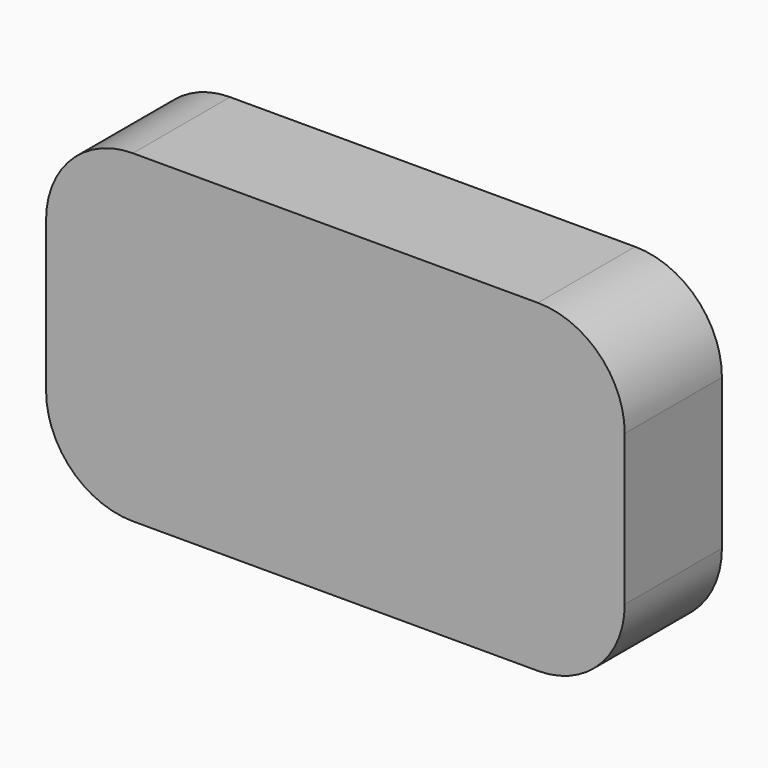
from build123d import *

# Parameters (mm, degrees)
F0_W     = 45
F0_H     = 23
F1_DEPTH = 8
F2_R     = 5
F3_T     = 2.5


with BuildPart() as f1:
    # F0 (on Front) → F1 (new body)
    with BuildSketch(Plane.XZ):
        Rectangle(F0_W, F0_H)
    extrude(amount=F1_DEPTH)

    # F2
    f2_edges = [f1.edges().sort_by_distance(p)[0] for p in [
        (22.5, -4, 11.5),
        (-22.5, -4, 11.5),
        (22.5, -4, -11.5),
        (-22.5, -4, -11.5),
    ]]
    fillet(f2_edges, radius=F2_R)

    # F3
    f3_openings = [f1.faces().sort_by_distance(p)[0] for p in [
        (0, 0, 0),
    ]]
    offset(amount=F3_T, openings=f3_openings, kind=Kind.INTERSECTION)


solid = f1.part
